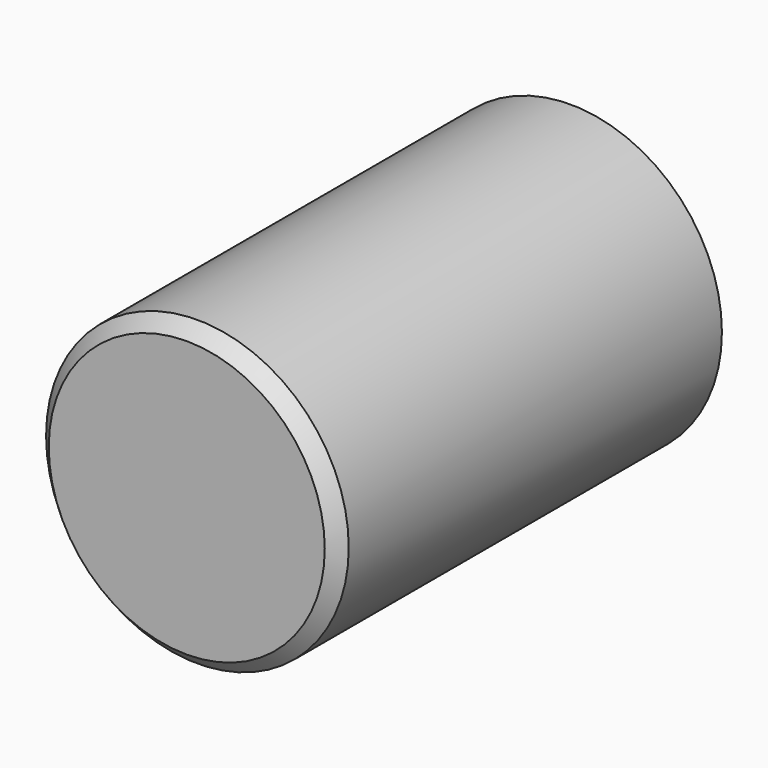
from build123d import *

# Parameters (mm, degrees)
F0_R     = 28.388449
F1_DEPTH = 90
F2_SIZE  = 2.5
F3_W     = 36.176905
F3_H     = 18.97082
F4_DEPTH = 5


with BuildPart() as f1:
    # F0 (on Front) → F1 (new body)
    with BuildSketch(Plane.XZ):
        Circle(F0_R)
    extrude(amount=F1_DEPTH)

    # F2
    f2_edges = [f1.edges().sort_by_distance(p)[0] for p in [
        (-28.388449, -90, 0),
    ]]
    chamfer(f2_edges, length=F2_SIZE)

    # F3 (on Right) → F4 (cut)
    with BuildSketch(Plane.YZ):
        with Locations((-53.824171, 0)):
            Rectangle(F3_W, F3_H)
    extrude(amount=F4_DEPTH, mode=Mode.SUBTRACT)


solid = f1.part
